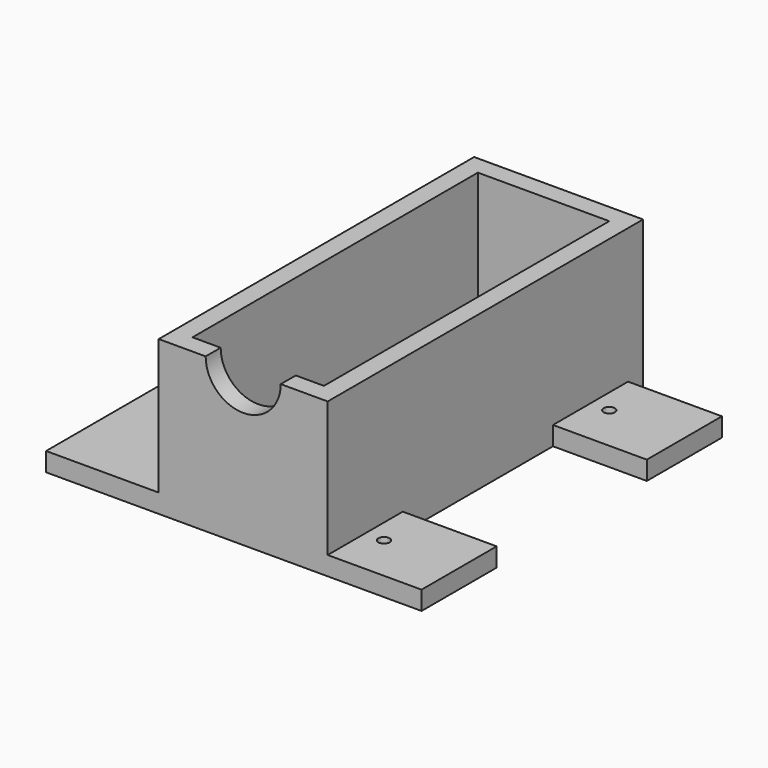
from build123d import *

# Parameters (mm, degrees)
F0_W      = 44.45
F0_H      = 45.72
F1_DEPTH  = 120.65
F2_T      = 6.35
F4_W      = 38.1
F4_H      = 6.35
F5_DEPTH  = 127
F6_W      = 31.75
F6_H      = 6.35
F7_DEPTH  = 38.1
F3_W      = 31.75
F3_H      = 6.35
F8_DEPTH  = 38.1
F10_D     = 3.81
F12_D     = 3.81
F14_D     = 3.81
F16_D     = 3.81
F18_D     = 25.4
F18_DEPTH = 15.1
F18_TIP   = 7.6309298617


with BuildPart() as f1:
    # F0 (on Front) → F1 (new body)
    with BuildSketch(Plane.XZ):
        with Locations((-22.225, 22.86)):
            Rectangle(F0_W, F0_H)
    extrude(amount=F1_DEPTH)

    # F2
    f2_openings = [f1.faces().sort_by_distance(p)[0] for p in [
        (-22.225, -60.325, 45.72),
    ]]
    offset(amount=F2_T, openings=f2_openings, kind=Kind.INTERSECTION)

    # F4 (on Front) → F5 (join)
    with BuildSketch(Plane.XZ):
        with Locations((-69.85, -3.175)):
            Rectangle(F4_W, F4_H)
    extrude(amount=F5_DEPTH)

    # F6 (on Right) → F7 (join)
    with BuildSketch(Plane.YZ):
        with Locations((-111.125, -3.175)):
            Rectangle(F6_W, F6_H)
    extrude(amount=F7_DEPTH)

    # F3 (on Right) → F8 (join)
    with BuildSketch(Plane.YZ):
        with Locations((-15.875, -3.175)):
            Rectangle(F3_W, F3_H)
    extrude(amount=F8_DEPTH)

    # F10 (through all)
    with Locations(Plane.XY):
        with Locations((-57.15, -111.125)):
            Hole(F10_D / 2)

    # F12 (through all)
    with Locations(Plane.XY):
        with Locations((-57.15, -15.875)):
            Hole(F12_D / 2)

    # F14 (through all)
    with Locations(Plane.XY):
        with Locations((12.7, -111.125)):
            Hole(F14_D / 2)

    # F16 (through all)
    with Locations(Plane.XY):
        with Locations((12.7, -15.875)):
            Hole(F16_D / 2)

    # F18
    with Locations(Plane.XZ.offset(127)):
        with Locations((-22.225, 45.72)):
            Hole(F18_D / 2, depth=F18_DEPTH)
            with Locations((0, 0, -(F18_DEPTH + F18_TIP / 2))):  # 118° drill point
                Cone(0, F18_D / 2, F18_TIP, mode=Mode.SUBTRACT)


solid = f1.part
